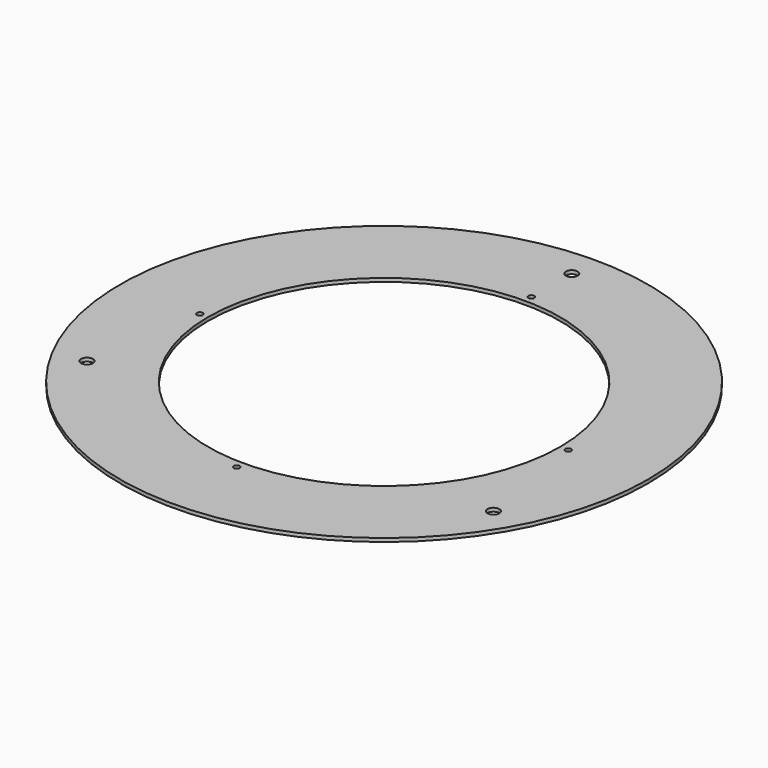
from build123d import *

# Parameters (mm, degrees)
F0_R     = 225
F0_R_2   = 150
F1_DEPTH = 3
F2_R     = 5
F3_DEPTH = 3
F4_R     = 2.5
F5_DEPTH = 3


with BuildPart() as f1:
    # F0 (on Top) → F1 (new body)
    with BuildSketch(Plane.XY):
        Circle(F0_R)
        Circle(F0_R_2, mode=Mode.SUBTRACT)
    extrude(amount=F1_DEPTH)

    # F2 (on face) → F3 (cut)
    with BuildSketch(Plane.XY.offset(3)):
        with BuildLine():
            ThreePointArc((0, 195), (3.535534, 196.464466), (5, 200))
            ThreePointArc((5, 200), (-3.535534, 203.535534), (0, 195))
        make_face()
        with Locations((-173.205081, -100)):
            Circle(F2_R)
        with Locations((173.205081, -100)):
            Circle(F2_R)
    extrude(amount=-F3_DEPTH, mode=Mode.SUBTRACT)

    # F4 (on face) → F5 (cut)
    with BuildSketch(Plane.XY.offset(3)):
        with BuildLine():
            ThreePointArc((0, 154.5), (1.767767, 155.232233), (2.5, 157))
            ThreePointArc((2.5, 157), (-1.767767, 158.767767), (0, 154.5))
        make_face()
        with Locations((-157, 0)):
            Circle(F4_R)
        with Locations((0, -157)):
            Circle(F4_R)
        with Locations((157, 0)):
            Circle(F4_R)
    extrude(amount=-F5_DEPTH, mode=Mode.SUBTRACT)


solid = f1.part
